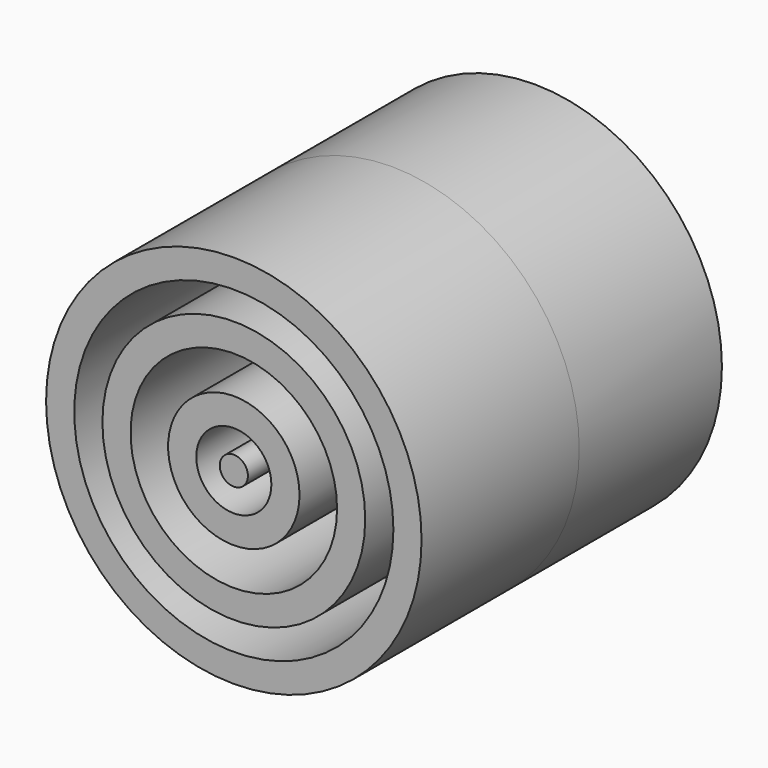
from build123d import *

# Parameters (mm, degrees)
F1_R     = 10
F2_DEPTH = 1
F0_R     = 10
F0_R_2   = 8.5
F0_R_3   = 7
F0_R_4   = 5.5
F0_R_5   = 3.5
F0_R_6   = 2
F3_DEPTH = 10.5
F4_DEPTH = 9.5
F5_DEPTH = 20
F6_R     = 0.75
F7_DEPTH = 20


with BuildPart() as f2:
    # F1 (on face) → F2 (new body)
    with BuildSketch(Plane.XZ):
        Circle(F1_R)
    extrude(amount=F2_DEPTH)

    # F0 (on Front) → F3 (join)
    with BuildSketch(Plane.XZ):
        Circle(F0_R)
        Circle(F0_R_2, mode=Mode.SUBTRACT)
        Circle(F0_R_3)
        Circle(F0_R_4, mode=Mode.SUBTRACT)
        Circle(F0_R_5)
        Circle(F0_R_6, mode=Mode.SUBTRACT)
    extrude(amount=F3_DEPTH)

    # F0 (on Front) → F4 (join)
    with BuildSketch(Plane.XZ):
        Circle(F0_R)
        Circle(F0_R_2, mode=Mode.SUBTRACT)
    extrude(amount=-F4_DEPTH)

    # F5 (add): faces of the model
    f5_faces = [f2.faces().sort_by_distance(p)[0] for p in [
        (-3.4010050506, -10.5, 0),
        (-6.8020101013, -10.5, 0),
        (-9.7171572875, -10.5, 0),
    ]]
    extrude(f5_faces, amount=-F5_DEPTH)


with BuildPart() as f7:
    # F6 (on face) → F7 (new body)
    with BuildSketch(Plane.XZ.offset(10.5)):
        Circle(F6_R)
    extrude(amount=-F7_DEPTH)


solid = Compound([f2.part, f7.part])
